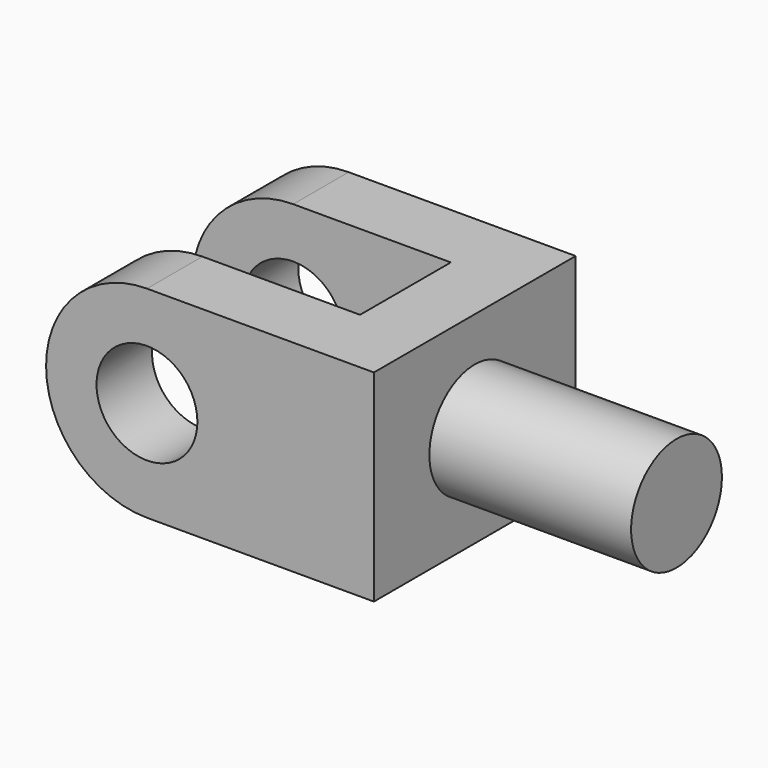
from build123d import *

# Parameters (mm, degrees)
F1_DEPTH = 812.8
F2_R     = 228.6
F3_DEPTH = 812.8
F4_R     = 203.2
F5_DEPTH = 279.4
F6_R     = 203.2
F7_DEPTH = 279.4


with BuildPart() as f1:
    # F0 (on Top) → F1 (new body)
    with BuildSketch(Plane.XY):
        Polygon((665.864282, 435.576168), (-654.935718, 435.576168), (-654.935718, 156.176168), (386.464282, 156.176168), (386.464282, -301.023832), (-654.935718, -301.023832), (-654.935718, -580.423832), (665.864282, -580.423832), (665.864282, -301.023832), (665.864282, 156.176168), align=None)
    extrude(amount=F1_DEPTH)

    # F2 (on face) → F3 (join)
    with BuildSketch(Plane.YZ.offset(665.864282)):
        with Locations((-72.423832, 406.4)):
            Circle(F2_R)
    extrude(amount=F3_DEPTH)

    # F4 (on face) → F5 (cut)
    with BuildSketch(Plane.XZ.offset(580.423832)):
        with BuildLine():
            ThreePointArc((-654.935718, 406.4), (-535.903913, 693.768196), (-248.535718, 812.8))
            Line((-248.535718, 812.8), (-654.935718, 812.8))
            Line((-654.935718, 812.8), (-654.935718, 406.4))
        make_face()
        with BuildLine():
            ThreePointArc((-248.535718, 0), (-535.903913, 119.031804), (-654.935718, 406.4))
            Line((-654.935718, 406.4), (-654.935718, 0))
            Line((-654.935718, 0), (-248.535718, 0))
        make_face()
        with Locations((-248.535718, 406.4)):
            Circle(F4_R)
    extrude(amount=-F5_DEPTH, mode=Mode.SUBTRACT)

    # F6 (on face) → F7 (cut)
    with BuildSketch(Plane(origin=(0, 435.576168, 0), x_dir=(-1, 0, 0), z_dir=(0, 1, 0))):
        with BuildLine():
            Line((654.935718, 812.8), (248.535718, 812.8))
            ThreePointArc((248.535718, 812.8), (535.903913, 693.768196), (654.935718, 406.4))
            Line((654.935718, 406.4), (654.935718, 812.8))
        make_face()
        with BuildLine():
            Line((654.935718, 0), (654.935718, 406.4))
            ThreePointArc((654.935718, 406.4), (535.903913, 119.031804), (248.535718, 0))
            Line((248.535718, 0), (654.935718, 0))
        make_face()
        with Locations((248.535718, 406.4)):
            Circle(F6_R)
    extrude(amount=-F7_DEPTH, mode=Mode.SUBTRACT)


solid = f1.part
